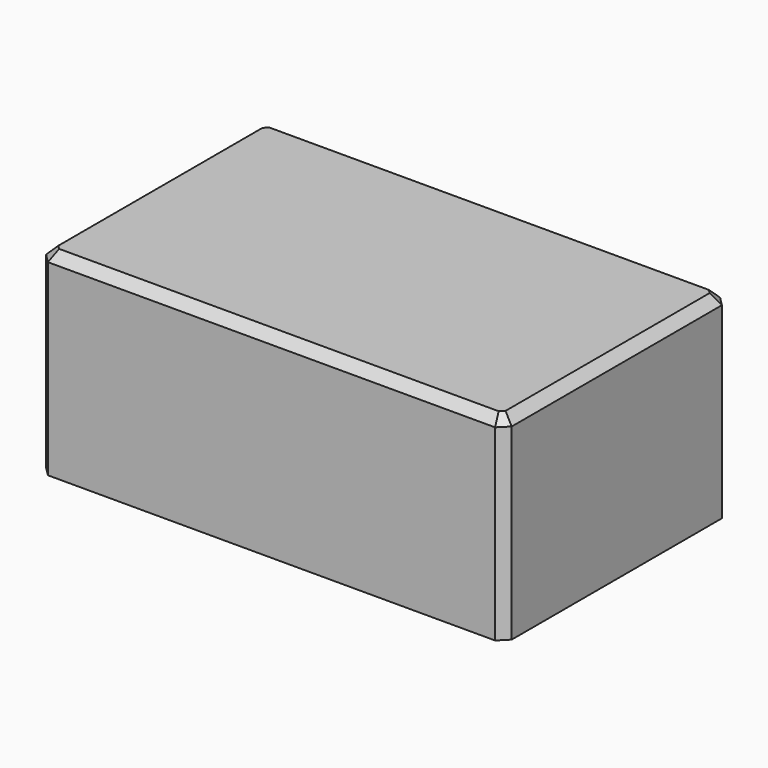
from build123d import *

# Parameters (mm, degrees)
SKETCH_W        = 101
SKETCH_H        = 61
PAD_DEPTH       = 42.7
SKETCH001_W     = 91
SKETCH001_H     = 51
POCKET_DEPTH    = 32.7
CHAMFER_SIZE    = 2
CHAMFER001_SIZE = 2
CHAMFER002_SIZE = 2
CHAMFER003_SIZE = 2


with BuildPart() as part:
    # Sketch → Pad (new body)
    with BuildSketch(Plane.XY):
        Rectangle(SKETCH_W, SKETCH_H)
    extrude(amount=PAD_DEPTH)

    # Sketch001 (on Face5 of Pad) → Pocket (cut)
    with BuildSketch(Plane(origin=(0, 0, 0), x_dir=(1, 0, 0), z_dir=(0, 0, -1))):
        Rectangle(SKETCH001_W, SKETCH001_H)
    extrude(amount=-POCKET_DEPTH, mode=Mode.SUBTRACT)

    # Chamfer
    chamfer_edges = [part.edges().sort_by_distance(p)[0] for p in [
        (-50.5, -30.5, 21.35),
    ]]
    chamfer(chamfer_edges, length=CHAMFER_SIZE)

    # Chamfer001
    chamfer001_edges = [part.edges().sort_by_distance(p)[0] for p in [
        (-50.5, 30.5, 21.35),
    ]]
    chamfer(chamfer001_edges, length=CHAMFER001_SIZE)

    # Chamfer002
    chamfer002_edges = [part.edges().sort_by_distance(p)[0] for p in [
        (50.5, 30.5, 21.35),
        (50.5, -30.5, 21.35),
    ]]
    chamfer(chamfer002_edges, length=CHAMFER002_SIZE)

    # Chamfer003
    chamfer003_edges = [part.edges().sort_by_distance(p)[0] for p in [
        (0, 30.5, 42.7),
        (49.5, 29.5, 42.7),
        (-49.5, 29.5, 42.7),
        (50.5, 0, 42.7),
        (-50.5, 0, 42.7),
        (49.5, -29.5, 42.7),
        (-49.5, -29.5, 42.7),
        (0, -30.5, 42.7),
    ]]
    chamfer(chamfer003_edges, length=CHAMFER003_SIZE)


solid = part.part
